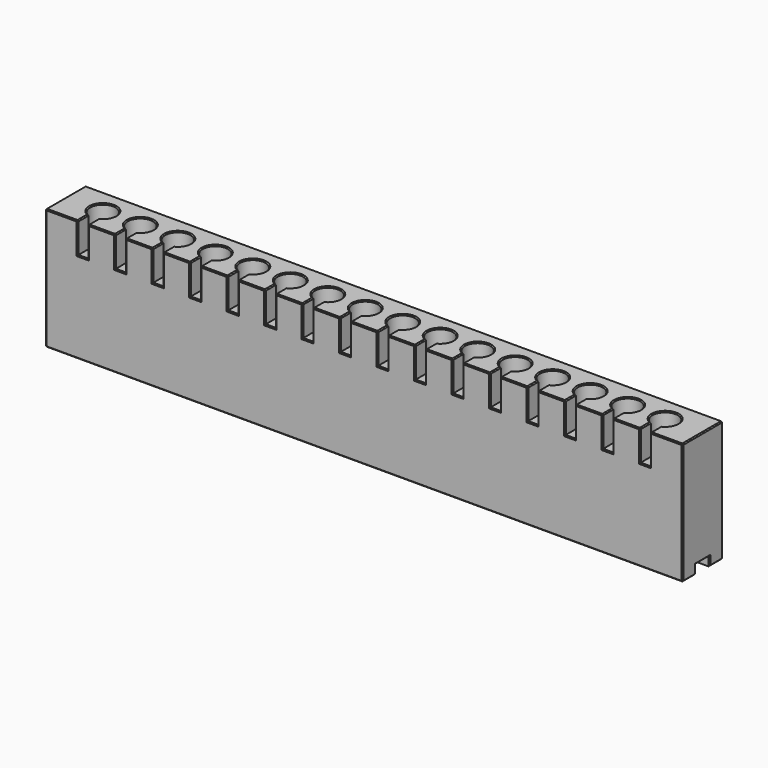
from build123d import *

# Parameters (mm, degrees)
F0_W     = 5
F0_H     = 15
F1_DEPTH = 24.8
F2_W     = 8.6
F2_H     = 4.5
F3_DEPTH = 314.5
F4_R     = 6.25
F5_DEPTH = 25
F6_START = 12
F6_DEPTH = 13
F7_SIZE  = 0.5


with BuildPart() as f1:
    # F0 (on Front) → F1 (new body)
    with BuildSketch(Plane.XZ):
        Polygon((-141.6091923343, 59.9999962747), (-141.6091923343, -3.7253e-06), (172.8908076657, -3.7253e-06), (172.8908076657, 59.9999962747), (156.8908076657, 59.9999962747), (156.8908076657, 44.9999962747), (151.8908076657, 44.9999962747), (151.8908076657, 59.9999962747), (138.3908076657, 59.9999962747), (138.3908076657, 44.9999962747), (133.3908076657, 44.9999962747), (133.3908076657, 59.9999962747), (119.8908076657, 59.9999962747), (119.8908076657, 44.9999962747), (114.8908076657, 44.9999962747), (114.8908076657, 59.9999962747), (101.3908076657, 59.9999962747), (101.3908076657, 44.9999962747), (96.3908076657, 44.9999962747), (96.3908076657, 59.9999962747), (82.8908076657, 59.9999962747), (82.8908076657, 44.9999962747), (77.8908076657, 44.9999962747), (77.8908076657, 59.9999962747), (64.3908076657, 59.9999962747), (64.3908076657, 44.9999962747), (59.3908076657, 44.9999962747), (59.3908076657, 59.9999962747), (45.8908076657, 59.9999962747), (45.8908076657, 44.9999962747), (40.8908076657, 44.9999962747), (40.8908076657, 59.9999962747), (27.3908076657, 59.9999962747), (27.3908076657, 44.9999962747), (22.3908076657, 44.9999962747), (22.3908076657, 59.9999962747), (8.8908076657, 59.9999962747), (8.8908076657, 44.9999962747), (3.8908076657, 44.9999962747), (3.8908076657, 59.9999962747), (-9.6091923343, 59.9999962747), (-9.6091923343, 44.9999962747), (-14.6091923343, 44.9999962747), (-14.6091923343, 59.9999962747), (-28.1091923343, 59.9999962747), (-28.1091923343, 44.9999962747), (-33.1091923343, 44.9999962747), (-33.1091923343, 59.9999962747), (-46.6091923343, 59.9999962747), (-46.6091923343, 44.9999962747), (-51.6091923343, 44.9999962747), (-51.6091923343, 59.9999962747), (-65.1091923343, 59.9999962747), (-65.1091923343, 44.9999962747), (-70.1091923343, 44.9999962747), (-70.1091923343, 59.9999962747), (-83.6091923343, 59.9999962747), (-83.6091923343, 44.9999962747), (-88.6091923343, 44.9999962747), (-88.6091923343, 59.9999962747), (-102.1091923343, 59.9999962747), (-102.1091923343, 44.9999962747), (-107.1091923343, 44.9999962747), (-107.1091923343, 59.9999962747), (-120.6091923343, 59.9999962747), (-120.6091923343, 44.9999962747), (-125.6091923343, 44.9999962747), (-125.6091923343, 59.9999962747), align=None)
        with Locations((-123.1091923343, 52.4999962747)):
            Rectangle(F0_W, F0_H)
        with Locations((154.3908076657, 52.4999962747)):
            Rectangle(F0_W, F0_H)
        with Locations((-104.6091923343, 52.4999962747)):
            Rectangle(F0_W, F0_H)
        with Locations((135.8908076657, 52.4999962747)):
            Rectangle(F0_W, F0_H)
        with Locations((-86.1091923343, 52.4999962747)):
            Rectangle(F0_W, F0_H)
        with Locations((117.3908076657, 52.4999962747)):
            Rectangle(F0_W, F0_H)
        with Locations((-67.6091923343, 52.4999962747)):
            Rectangle(F0_W, F0_H)
        with Locations((98.8908076657, 52.4999962747)):
            Rectangle(F0_W, F0_H)
        with Locations((-49.1091923343, 52.4999962747)):
            Rectangle(F0_W, F0_H)
        with Locations((80.3908076657, 52.4999962747)):
            Rectangle(F0_W, F0_H)
        with Locations((-30.6091923343, 52.4999962747)):
            Rectangle(F0_W, F0_H)
        with Locations((61.8908076657, 52.4999962747)):
            Rectangle(F0_W, F0_H)
        with Locations((-12.1091923343, 52.4999962747)):
            Rectangle(F0_W, F0_H)
        with Locations((43.3908076657, 52.4999962747)):
            Rectangle(F0_W, F0_H)
        with Locations((6.3908076657, 52.4999962747)):
            Rectangle(F0_W, F0_H)
        with Locations((24.8908076657, 52.4999962747)):
            Rectangle(F0_W, F0_H)
    extrude(amount=F1_DEPTH)

    # F2 (on face) → F3 (cut)
    with BuildSketch(Plane(origin=(-141.6091923343, 0, 0), x_dir=(0, -1, 0), z_dir=(-1, 0, 0))):
        with Locations((12.45, 2.2499962747)):
            Rectangle(F2_W, F2_H)
    extrude(amount=-F3_DEPTH, mode=Mode.SUBTRACT)

    # F4 (on face) → F5 (cut)
    with BuildSketch(Plane.XY.offset(59.9999962747)):
        with Locations((154.3908076657, -12.4)):
            Circle(F4_R)
        with Locations((135.8908076657, -12.4)):
            Circle(F4_R)
        with Locations((117.3908076657, -12.4)):
            Circle(F4_R)
        with Locations((98.8908076657, -12.4)):
            Circle(F4_R)
        with Locations((80.3908076657, -12.4)):
            Circle(F4_R)
        with Locations((61.8908076657, -12.4)):
            Circle(F4_R)
        with Locations((43.3908076657, -12.4)):
            Circle(F4_R)
        with Locations((24.8908076657, -12.4)):
            Circle(F4_R)
        with Locations((6.3908076657, -12.4)):
            Circle(F4_R)
        with Locations((-12.1091923343, -12.4)):
            Circle(F4_R)
        with Locations((-30.6091923343, -12.4)):
            Circle(F4_R)
        with Locations((-49.1091923343, -12.4)):
            Circle(F4_R)
        with Locations((-67.6091923343, -12.4)):
            Circle(F4_R)
        with Locations((-86.1091923343, -12.4)):
            Circle(F4_R)
        with Locations((-104.6091923343, -12.4)):
            Circle(F4_R)
        with Locations((-123.1091923343, -12.4)):
            Circle(F4_R)
        with Locations((154.3908076657, -12.4)):
            Circle(F4_R)
    extrude(amount=-F5_DEPTH, mode=Mode.SUBTRACT)

    # F0 (on Front) → F6 (cut)
    with BuildSketch(Plane.XZ.offset(F6_START)):
        with Locations((-123.1091923343, 52.4999962747)):
            Rectangle(F0_W, F0_H)
        with Locations((6.3908076657, 52.4999962747)):
            Rectangle(F0_W, F0_H)
        with Locations((24.8908076657, 52.4999962747)):
            Rectangle(F0_W, F0_H)
        with Locations((-49.1091923343, 52.4999962747)):
            Rectangle(F0_W, F0_H)
        with Locations((-12.1091923343, 52.4999962747)):
            Rectangle(F0_W, F0_H)
        with Locations((-67.6091923343, 52.4999962747)):
            Rectangle(F0_W, F0_H)
        with Locations((-86.1091923343, 52.4999962747)):
            Rectangle(F0_W, F0_H)
        with Locations((-104.6091923343, 52.4999962747)):
            Rectangle(F0_W, F0_H)
        with Locations((-30.6091923343, 52.4999962747)):
            Rectangle(F0_W, F0_H)
        with Locations((154.3908076657, 52.4999962747)):
            Rectangle(F0_W, F0_H)
        with Locations((135.8908076657, 52.4999962747)):
            Rectangle(F0_W, F0_H)
        with Locations((43.3908076657, 52.4999962747)):
            Rectangle(F0_W, F0_H)
        with Locations((98.8908076657, 52.4999962747)):
            Rectangle(F0_W, F0_H)
        with Locations((117.3908076657, 52.4999962747)):
            Rectangle(F0_W, F0_H)
        with Locations((61.8908076657, 52.4999962747)):
            Rectangle(F0_W, F0_H)
        with Locations((80.3908076657, 52.4999962747)):
            Rectangle(F0_W, F0_H)
    extrude(amount=F6_DEPTH, mode=Mode.SUBTRACT)

    # F7
    f7_edges = [f1.edges().sort_by_distance(p)[0] for p in [
        (15.640808, 0, 59.999996),
        (-141.609192, -12.4, 59.999996),
        (-133.609192, -24.8, 59.999996),
        (-125.609192, -21.46411, 59.999996),
        (-126.532458, -7.170875, 59.999996),
        (-117.880067, -15.823266, 59.999996),
        (-120.609192, -21.46411, 59.999996),
        (-113.859192, -24.8, 59.999996),
        (-107.109192, -21.46411, 59.999996),
        (-108.032458, -7.170875, 59.999996),
        (-99.380067, -15.823266, 59.999996),
        (-102.109192, -21.46411, 59.999996),
        (-95.359192, -24.8, 59.999996),
        (-88.609192, -21.46411, 59.999996),
        (-89.532458, -7.170875, 59.999996),
        (-80.880067, -15.823266, 59.999996),
        (-83.609192, -21.46411, 59.999996),
        (-76.859192, -24.8, 59.999996),
        (-70.109192, -21.46411, 59.999996),
        (-71.032458, -7.170875, 59.999996),
        (-62.380067, -15.823266, 59.999996),
        (-65.109192, -21.46411, 59.999996),
        (-58.359192, -24.8, 59.999996),
        (-51.609192, -21.46411, 59.999996),
        (-52.532458, -7.170875, 59.999996),
        (-43.880067, -15.823266, 59.999996),
        (-46.609192, -21.46411, 59.999996),
        (-39.859192, -24.8, 59.999996),
        (-33.109192, -21.46411, 59.999996),
        (-34.032458, -7.170875, 59.999996),
        (-25.380067, -15.823266, 59.999996),
        (-28.109192, -21.46411, 59.999996),
        (-21.359192, -24.8, 59.999996),
        (-14.609192, -21.46411, 59.999996),
        (-15.532458, -7.170875, 59.999996),
        (-6.880067, -15.823266, 59.999996),
        (-9.609192, -21.46411, 59.999996),
        (-2.859192, -24.8, 59.999996),
        (3.890808, -21.46411, 59.999996),
        (2.967542, -7.170875, 59.999996),
        (11.619933, -15.823266, 59.999996),
        (8.890808, -21.46411, 59.999996),
        (15.640808, -24.8, 59.999996),
        (22.390808, -21.46411, 59.999996),
        (21.467542, -7.170875, 59.999996),
        (30.119933, -15.823266, 59.999996),
        (27.390808, -21.46411, 59.999996),
        (34.140808, -24.8, 59.999996),
        (40.890808, -21.46411, 59.999996),
        (39.967542, -7.170875, 59.999996),
        (48.619933, -15.823266, 59.999996),
        (45.890808, -21.46411, 59.999996),
        (52.640808, -24.8, 59.999996),
        (59.390808, -21.46411, 59.999996),
        (58.467542, -7.170875, 59.999996),
        (67.119933, -15.823266, 59.999996),
        (64.390808, -21.46411, 59.999996),
        (71.140808, -24.8, 59.999996),
        (77.890808, -21.46411, 59.999996),
        (76.967542, -7.170875, 59.999996),
        (85.619933, -15.823266, 59.999996),
        (82.890808, -21.46411, 59.999996),
        (89.640808, -24.8, 59.999996),
        (96.390808, -21.46411, 59.999996),
        (95.467542, -7.170875, 59.999996),
        (104.119933, -15.823266, 59.999996),
        (101.390808, -21.46411, 59.999996),
        (108.140808, -24.8, 59.999996),
        (114.890808, -21.46411, 59.999996),
        (113.967542, -7.170875, 59.999996),
        (122.619933, -15.823266, 59.999996),
        (119.890808, -21.46411, 59.999996),
        (126.640808, -24.8, 59.999996),
        (133.390808, -21.46411, 59.999996),
        (132.467542, -7.170875, 59.999996),
        (141.119933, -15.823266, 59.999996),
        (138.390808, -21.46411, 59.999996),
        (145.140808, -24.8, 59.999996),
        (151.890808, -21.46411, 59.999996),
        (150.967542, -7.170875, 59.999996),
        (159.619933, -15.823266, 59.999996),
        (156.890808, -21.46411, 59.999996),
        (164.890808, -24.8, 59.999996),
        (172.890808, -12.4, 59.999996),
        (-125.609192, -24.8, 52.499996),
        (-123.109192, -24.8, 44.999996),
        (-120.609192, -24.8, 52.499996),
        (-107.109192, -24.8, 52.499996),
        (-104.609192, -24.8, 44.999996),
        (-102.109192, -24.8, 52.499996),
        (-88.609192, -24.8, 52.499996),
        (-86.109192, -24.8, 44.999996),
        (-83.609192, -24.8, 52.499996),
        (-70.109192, -24.8, 52.499996),
        (-67.609192, -24.8, 44.999996),
        (-65.109192, -24.8, 52.499996),
        (-51.609192, -24.8, 52.499996),
        (-49.109192, -24.8, 44.999996),
        (-46.609192, -24.8, 52.499996),
        (-33.109192, -24.8, 52.499996),
        (-30.609192, -24.8, 44.999996),
        (-28.109192, -24.8, 52.499996),
        (-14.609192, -24.8, 52.499996),
        (-12.109192, -24.8, 44.999996),
        (-9.609192, -24.8, 52.499996),
        (3.890808, -24.8, 52.499996),
        (6.390808, -24.8, 44.999996),
        (8.890808, -24.8, 52.499996),
        (22.390808, -24.8, 52.499996),
        (24.890808, -24.8, 44.999996),
        (27.390808, -24.8, 52.499996),
        (40.890808, -24.8, 52.499996),
        (43.390808, -24.8, 44.999996),
        (45.890808, -24.8, 52.499996),
        (59.390808, -24.8, 52.499996),
        (61.890808, -24.8, 44.999996),
        (64.390808, -24.8, 52.499996),
        (77.890808, -24.8, 52.499996),
        (80.390808, -24.8, 44.999996),
        (82.890808, -24.8, 52.499996),
        (96.390808, -24.8, 52.499996),
        (98.890808, -24.8, 44.999996),
        (101.390808, -24.8, 52.499996),
        (114.890808, -24.8, 52.499996),
        (117.390808, -24.8, 44.999996),
        (119.890808, -24.8, 52.499996),
        (133.390808, -24.8, 52.499996),
        (135.890808, -24.8, 44.999996),
        (138.390808, -24.8, 52.499996),
        (151.890808, -24.8, 52.499996),
        (154.390808, -24.8, 44.999996),
        (156.890808, -24.8, 52.499996),
        (172.890808, -24.8, 29.999996),
        (15.640808, -24.8, -4e-06),
        (-141.609192, -24.8, 29.999996),
        (-141.609192, 0, 29.999996),
        (-141.609192, -4.075, -4e-06),
        (-141.609192, -8.15, 2.249996),
        (-141.609192, -12.45, 4.499996),
        (-141.609192, -16.75, 2.249996),
        (-141.609192, -20.775, -4e-06),
        (15.640808, 0, -4e-06),
        (172.890808, 0, 29.999996),
        (172.890808, -20.775, -4e-06),
        (172.890808, -16.75, 2.249996),
        (172.890808, -12.45, 4.499996),
        (172.890808, -8.15, 2.249996),
        (172.890808, -4.075, -4e-06),
    ]]
    chamfer(f7_edges, length=F7_SIZE)


solid = f1.part
